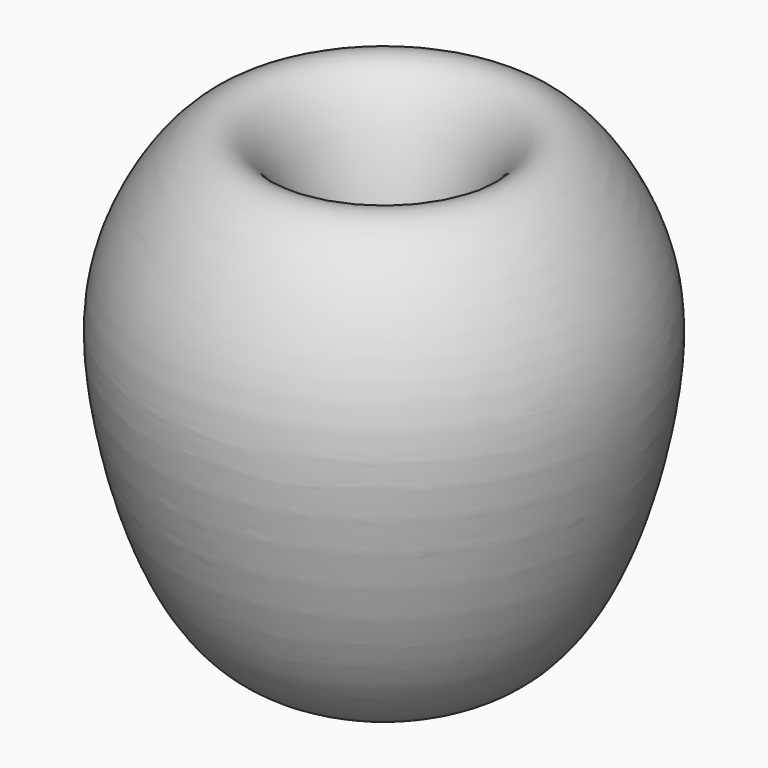
from build123d import *


with BuildPart() as f1:
    # F0 (on Front) → F1 (revolve)
    with BuildSketch(Plane.XZ):
        with BuildLine():
            add(Edge.make_bspline(
                [(0, 0), (22.5255502006, 4.705983897), (61.8214051533, 12.9155794116), (27.1615520383, 41.9155839326), (16.596899478, 62.543071312), (42.5654074917, 138.8163809047), (87.3597086604, 82.0686614388), (87.8082490129, 28.656173961), (61.9107570247, -55.3996897788), (19.4782111993, -61.5593998189), (0, -64.3869638443)],
                knots=[0, 0, 0, 0, 0.1270488876, 0.2216369927, 0.3137760498, 0.4481952223, 0.5682786705, 0.7056302853, 0.8648728093, 1, 1, 1, 1], degree=3))
            Line((0, 0), (0, -64.3869638443))
        make_face()
    revolve(axis=Axis((0, 0, -32.1934819221), (0, 0, -1)))


solid = f1.part
